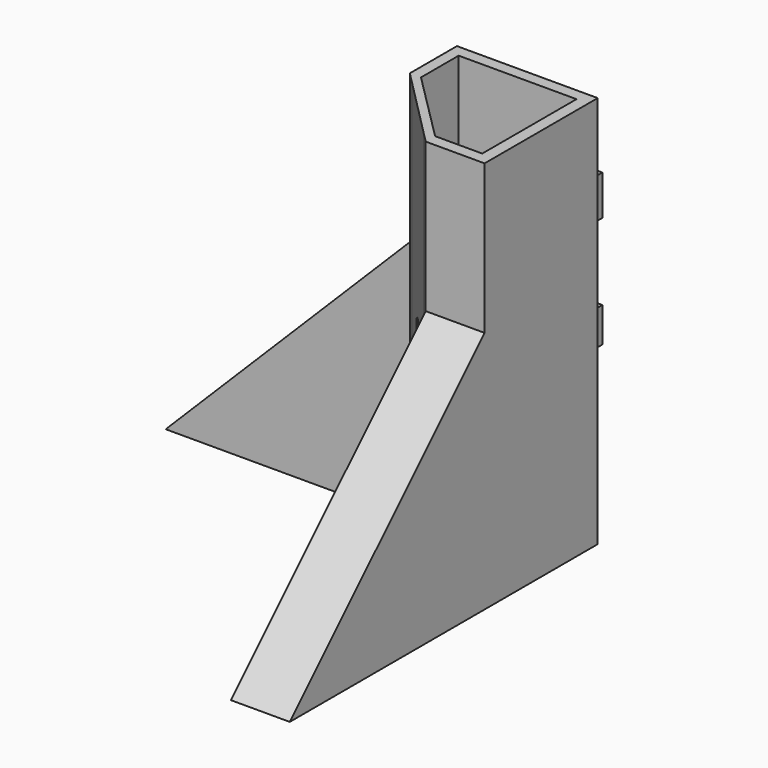
from build123d import *

# Parameters (mm, degrees)
F1_DEPTH  = 127
F3_DEPTH  = 19.05
F5_DEPTH  = 19.05
F6_R      = 3.0369743136
F7_DEPTH  = 25.4
F8_W      = 4.4003706425
F8_H      = 12.9362940788
F8_W_2    = 4.6123838983
F8_H_2    = 11.268997401
F9_DEPTH  = 7.62
F8_W_3    = 58.9885585941
F8_H_3    = 15.6373567879
F10_DEPTH = 12.7
F12_DEPTH = 25.4


with BuildPart() as f1:
    # F0 (on Top) → F1 (new body)
    with BuildSketch(Plane.XY):
        Polygon((-19.05, 3.81), (-19.05, 19.05), (19.05, 19.05), (19.05, -19.05), (3.81, -19.05), (0.0297182501, -19.05), (3.81, -22.86), (22.86, -22.86), (22.86, 22.86), (-22.6519722492, 22.86), (-22.6519722492, 3.81), (-19.05, 0.1797112604), align=None)
        Polygon((3.81, -19.05), (-19.05, 3.81), (-19.05, 0.1797112604), (0.0297182501, -19.05), align=None)
    extrude(amount=F1_DEPTH)

    # F2 (on face) → F3 (join)
    with BuildSketch(Plane.YZ.offset(22.86)):
        Polygon((-22.86, 0), (-22.86, 78.74), (-101.6, 0), align=None)
    extrude(amount=-F3_DEPTH)

    # F4 (on face) → F5 (join)
    with BuildSketch(Plane(origin=(0, 22.86, 0), x_dir=(-1, 0, 0), z_dir=(0, 1, 0))):
        Polygon((101.6, 0), (22.6519722492, 78.9480277508), (22.6519722492, 0), align=None)
    extrude(amount=-F5_DEPTH)

    # F6 (on face) → F7 (cut)
    with BuildSketch(Plane(origin=(-9.5097324965, -9.4355559587, 0), x_dir=(0.7043328456, -0.7098698772, 0), z_dir=(-0.7098698772, -0.7043328456, 0))):
        with Locations((0, 63.7570247054)):
            Circle(F6_R)
    extrude(amount=-F7_DEPTH, mode=Mode.SUBTRACT)

    # F8 (on face) → F9 (join)
    with BuildSketch(Plane(origin=(0, 22.86, 0), x_dir=(-1, 0, 0), z_dir=(0, 1, 0))):
        with Locations((-16.0567304119, 94.7479456663)):
            Rectangle(F8_W, F8_H)
        with Locations((-7.4986156542, 94.7479456663)):
            Rectangle(F8_W_2, F8_H)
        with Locations((-16.0567304119, 57.8655012995)):
            Rectangle(F8_W, F8_H_2)
        with Locations((-7.4986156542, 57.8655012995)):
            Rectangle(F8_W_2, F8_H_2)
    extrude(amount=F9_DEPTH)

    # F8 (on face) → F10 (join)
    with BuildSketch(Plane(origin=(0, 22.86, 0), x_dir=(-1, 0, 0), z_dir=(0, 1, 0))):
        with Locations((30.81879206, 30.5291432887)):
            Rectangle(F8_W_3, F8_H_3)
    extrude(amount=F10_DEPTH)

    # F11 (on face) → F12 (cut)
    with BuildSketch(Plane.XY.offset(38.3478216827)):
        with BuildLine():
            ThreePointArc((-49.531262368, 35.56), (-45.6181932241, 27.0444772391), (-41.7051240802, 35.56))
            Line((-41.7051240802, 35.56), (-49.531262368, 35.56))
        make_face()
        with BuildLine():
            ThreePointArc((-30.81879206, 35.56), (-26.5684658661, 27.6497786466), (-22.3181396723, 35.56))
            Line((-22.3181396723, 35.56), (-30.81879206, 35.56))
        make_face()
        with BuildLine():
            Line((-4.8403558321, 35.56), (-10.8519690111, 35.56))
            ThreePointArc((-10.8519690111, 35.56), (-7.8461624216, 27.8403776177), (-4.8403558321, 35.56))
        make_face()
    extrude(amount=-F12_DEPTH, mode=Mode.SUBTRACT)


solid = f1.part
